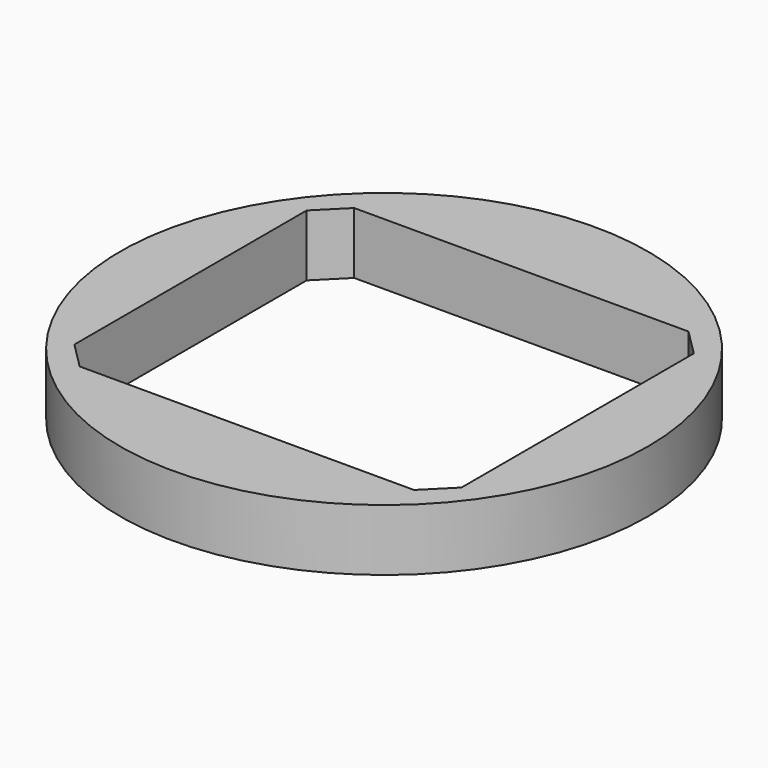
from build123d import *

# Parameters (mm, degrees)
F0_R     = 30
F0_W     = 44
F0_H     = 39
F1_DEPTH = 7
F2_SIZE  = 3


with BuildPart() as f1:
    # F0 (on Top) → F1 (new body)
    with BuildSketch(Plane.XY):
        Circle(F0_R)
        Rectangle(F0_W, F0_H, mode=Mode.SUBTRACT)
    extrude(amount=F1_DEPTH)

    # F2
    f2_edges = [f1.edges().sort_by_distance(p)[0] for p in [
        (-22, 19.5, 3.5),
        (22, 19.5, 3.5),
        (-22, -19.5, 3.5),
        (22, -19.5, 3.5),
    ]]
    chamfer(f2_edges, length=F2_SIZE)


solid = f1.part
